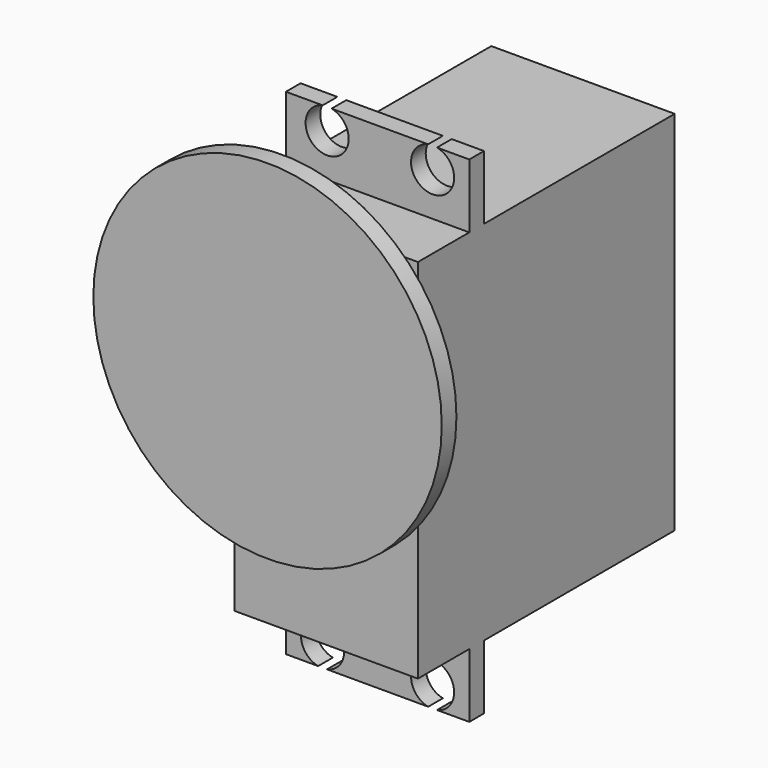
from build123d import *

# Parameters (mm, degrees)
F0_W     = 20
F0_H     = 40
F1_DEPTH = 17.5
F2_W     = 20
F2_H     = 2
F3_DEPTH = 27
F4_R     = 3.5
F5_DEPTH = 8
F6_R     = 19
F7_DEPTH = 2
F8_R     = 2.35
F9_DEPTH = 25.4


with BuildPart() as f1:
    # F0 (on Front) → F1 (new body, symmetric)
    with BuildSketch(Plane.XZ):
        Rectangle(F0_W, F0_H)
    extrude(amount=F1_DEPTH, both=True)

    # F2 (on Top) → F3 (join, symmetric)
    with BuildSketch(Plane.XY):
        with Locations((0, -9.5)):
            Rectangle(F2_W, F2_H)
    extrude(amount=F3_DEPTH, both=True)

    # F4 (on face) → F5 (join)
    with BuildSketch(Plane.XZ.offset(17.5)):
        with Locations((0, 10.5)):
            Circle(F4_R)
    extrude(amount=F5_DEPTH)

    # F6 (on face) → F7 (join)
    with BuildSketch(Plane.XZ.offset(25.5)):
        with Locations((0, 10.5)):
            Circle(F6_R)
    extrude(amount=-F7_DEPTH)

    # F8 (on face) → F9 (cut)
    with BuildSketch(Plane.XZ.offset(10.5)):
        with Locations((-6, -24.7)):
            Circle(F8_R)
        with Locations((6, -24.7)):
            Circle(F8_R)
        with Locations((-5.5, 24.7)):
            Circle(F8_R)
        with Locations((6, 24.7)):
            Circle(F8_R)
    extrude(amount=-F9_DEPTH, mode=Mode.SUBTRACT)


solid = f1.part
